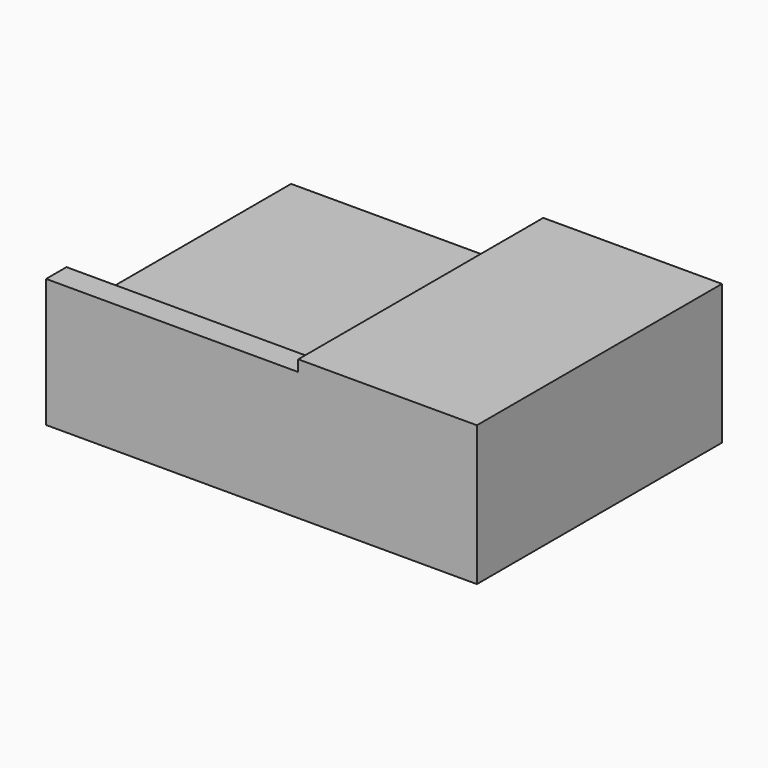
from build123d import *

# Parameters (mm, degrees)
F1_DEPTH = 30
F0_W     = 4.7
F0_H     = 2.9
F2_DEPTH = 5
F3_W     = 24.7
F3_H     = 2.5
F4_DEPTH = 4


with BuildPart() as f1:
    # F0 (on Front) → F1 (new body)
    with BuildSketch(Plane.XZ):
        Polygon((-42.2, 0), (0, 0), (0, 13.7), (-17.5, 13.7), (-17.5, 8.6), (-17.5, 5.7), (-22.2, 5.7), (-22.2, 8.6), (-42.2, 8.6), align=None)
    extrude(amount=-F1_DEPTH)

    # F0 (on Front) → F2 (join)
    with BuildSketch(Plane.XZ):
        with Locations((-19.85, 7.15)):
            Rectangle(F0_W, F0_H)
    extrude(amount=-F2_DEPTH)

    # F3 (on face) → F4 (join)
    with BuildSketch(Plane.XY.offset(8.6)):
        with Locations((-29.85, 1.25)):
            Rectangle(F3_W, F3_H)
    extrude(amount=F4_DEPTH)


solid = f1.part
